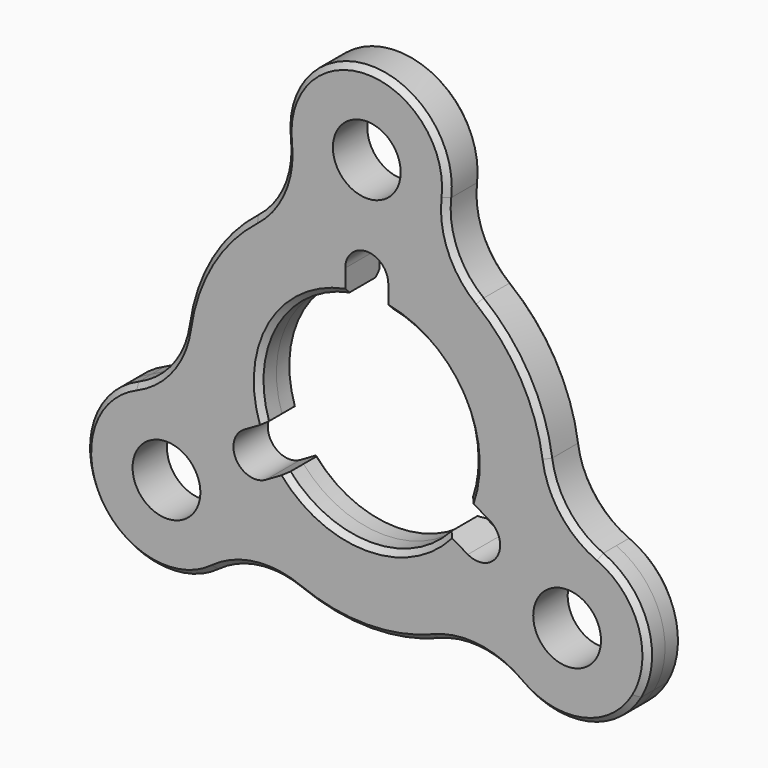
from build123d import *

# Parameters (mm, degrees)
F0_R          = 10
F1_DEPTH      = 2
F1_DEPTH_BACK = 2
F3_D          = 6.3
F4_SIZE       = 0.5
F6_DEPTH      = 4.001


with BuildPart() as f1:
    # F0 (on Front) → F1 (new body, two sides)
    with BuildSketch(Plane.XZ) as f1_sk:
        with BuildLine():
            ThreePointArc((10.4685027699, 13.3944186047), (8.0122088596, 16.6160342353), (7.4491243619, 20.6279069767))
            ThreePointArc((7.4491243619, 20.6279069767), (5.6031552573, 26.4854439284), (0, 29))
            ThreePointArc((0, 29), (-5.6031552573, 26.4854439284), (-7.4491243619, 20.6279069767))
            ThreePointArc((-7.4491243619, 20.6279069767), (-8.0122088596, 16.6160342353), (-10.4685027699, 13.3944186047))
            ThreePointArc((-10.4685027699, 13.3944186047), (-14.7224318643, 8.5), (-16.8341581655, 2.368780036))
            ThreePointArc((-16.8341581655, 2.368780036), (-18.3960121877, -1.3692407048), (-21.5888536497, -3.862822555))
            ThreePointArc((-21.5888536497, -3.862822555), (-25.7386449011, -8.39024717), (-25.1147367097, -14.5))
            ThreePointArc((-25.1147367097, -14.5), (-20.1354896438, -18.0951967583), (-14.1397292878, -16.7650844217))
            ThreePointArc((-14.1397292878, -16.7650844217), (-10.3838033281, -15.2467935304), (-6.3656553956, -15.7631986406))
            ThreePointArc((-6.3656553956, -15.7631986406), (0, -17), (6.3656553956, -15.7631986406))
            ThreePointArc((6.3656553956, -15.7631986406), (10.3838033281, -15.2467935304), (14.1397292878, -16.7650844217))
            ThreePointArc((14.1397292878, -16.7650844217), (20.1354896438, -18.0951967583), (25.1147367097, -14.5))
            ThreePointArc((25.1147367097, -14.5), (25.7386449011, -8.39024717), (21.5888536497, -3.862822555))
            ThreePointArc((21.5888536497, -3.862822555), (18.3960121877, -1.3692407048), (16.8341581655, 2.368780036))
            ThreePointArc((16.8341581655, 2.368780036), (14.7224318643, 8.5), (10.4685027699, 13.3944186047))
        make_face()
        Circle(F0_R, mode=Mode.SUBTRACT)
    extrude(amount=F1_DEPTH)
    extrude(f1_sk.sketch, amount=-F1_DEPTH_BACK)

    # F3 (through all)
    with Locations(Plane.XZ.offset(2)):
        with Locations((0, 21.5), (-18.6195461814, -10.75), (18.6195461814, -10.75)):
            Hole(F3_D / 2)

    # F4
    f4_edges = [f1.edges().sort_by_distance(p)[0] for p in [
        (-10, -2, 0),
        (-10, 2, 0),
        (0, -2, 29),
        (0, 2, 29),
    ]]
    chamfer(f4_edges, length=F4_SIZE)

    # F5 (on face) → F6 (cut, through all)
    with BuildSketch(Plane.XZ.offset(2)):
        with BuildLine():
            ThreePointArc((-2, 9.7979589711), (0, 10), (2, 9.7979589711))
            Line((2, 9.7979589711), (2, 12))
            ThreePointArc((2, 12), (0, 14), (-2, 12))
            Line((-2, 12), (-2, 9.7979589711))
        make_face()
        with BuildLine():
            Line((-9.4852813742, -3.166928678), (-11.3923048454, -4.2679491924))
            ThreePointArc((-11.3923048454, -4.2679491924), (-12.124355653, -7), (-9.3923048454, -7.7320508076))
            Line((-9.3923048454, -7.7320508076), (-7.4852813742, -6.6310302931))
            ThreePointArc((-7.4852813742, -6.6310302931), (-8.6602540378, -5), (-9.4852813742, -3.166928678))
        make_face()
        with BuildLine():
            Line((7.4852813742, -6.6310302931), (9.3923048454, -7.7320508076))
            ThreePointArc((9.3923048454, -7.7320508076), (12.124355653, -7), (11.3923048454, -4.2679491924))
            Line((11.3923048454, -4.2679491924), (9.4852813742, -3.166928678))
            ThreePointArc((9.4852813742, -3.166928678), (8.6602540378, -5), (7.4852813742, -6.6310302931))
        make_face()
    extrude(amount=-F6_DEPTH, mode=Mode.SUBTRACT)


solid = f1.part
